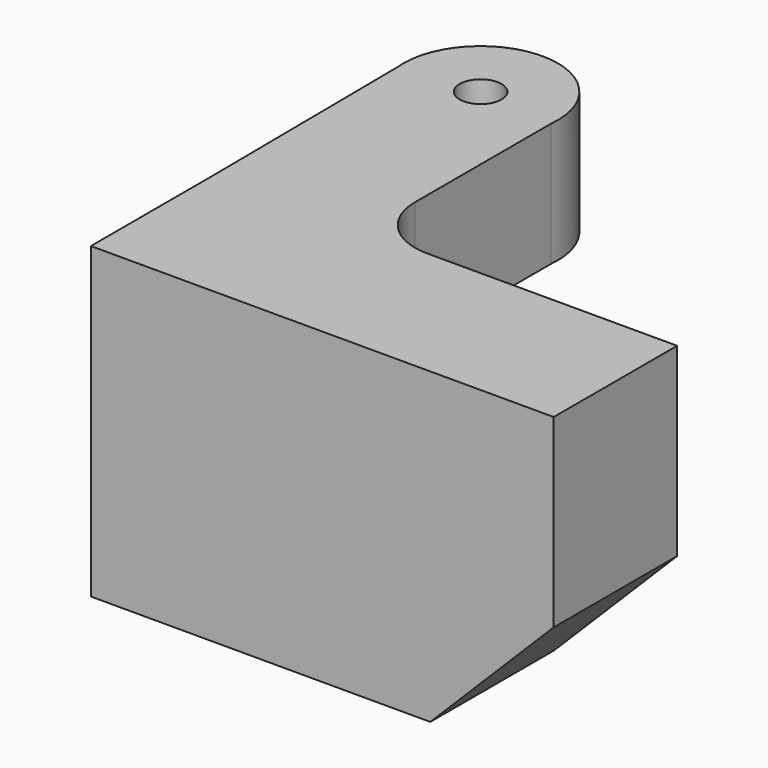
from build123d import *

# Parameters (mm, degrees)
F1_DEPTH       = 25.4
F2_DEPTH       = 15.24
F3_D           = 3.4544
F3_START       = 15.24
F3_CSINK_D     = 9.1186
F3_CSINK_ANGLE = 82
F4_R           = 5.08
F5_SIZE        = 10.16


with BuildPart() as f1:
    # F0 (on Top) → F1 (new body)
    with BuildSketch(Plane.XY):
        Polygon((-7.5087412455, 6.2847674176), (-19.9657089517, 6.2847674176), (-19.9657089517, -6.4152325824), (18.1342910483, -6.4152325824), (18.1342910483, 6.2847674176), align=None)
        with BuildLine():
            Line((-20.1363313266, 25.3347674176), (-19.9657089517, 6.2847674176))
            Line((-19.9657089517, 6.2847674176), (-7.5087412455, 6.2847674176))
            Line((-7.5087412455, 6.2847674176), (-7.5087412455, 25.3347674176))
            ThreePointArc((-7.5087412455, 25.3347674176), (-13.8225362861, 32.3618879282), (-20.1363313266, 25.3347674176))
        make_face()
    extrude(amount=F1_DEPTH)

    # F0 (on Top) → F2 (cut)
    with BuildSketch(Plane.XY):
        with BuildLine():
            Line((-20.1363313266, 25.3347674176), (-19.9657089517, 6.2847674176))
            Line((-19.9657089517, 6.2847674176), (-7.5087412455, 6.2847674176))
            Line((-7.5087412455, 6.2847674176), (-7.5087412455, 25.3347674176))
            ThreePointArc((-7.5087412455, 25.3347674176), (-13.8225362861, 32.3618879282), (-20.1363313266, 25.3347674176))
        make_face()
    extrude(amount=F2_DEPTH, mode=Mode.SUBTRACT)

    # F3 (through all)
    # its depths count from where the whole tool has entered the part; down to there all is cleared
    with Locations(Plane(origin=(0, 0, 0), x_dir=(1, 0, 0), z_dir=(0, 0, -1)).offset(-F3_START)):
        with Locations((-13.8225362861, -26.0118879282)):
            CounterSinkHole(F3_D / 2, F3_CSINK_D / 2, counter_sink_angle=F3_CSINK_ANGLE)

    # F4
    f4_edges = [f1.edges().sort_by_distance(p)[0] for p in [
        (-7.508741, 6.284767, 20.32),
    ]]
    fillet(f4_edges, radius=F4_R)

    # F5
    f5_edges = [f1.edges().sort_by_distance(p)[0] for p in [
        (18.134291, -0.065233, 0),
    ]]
    chamfer(f5_edges, length=F5_SIZE)


solid = f1.part
